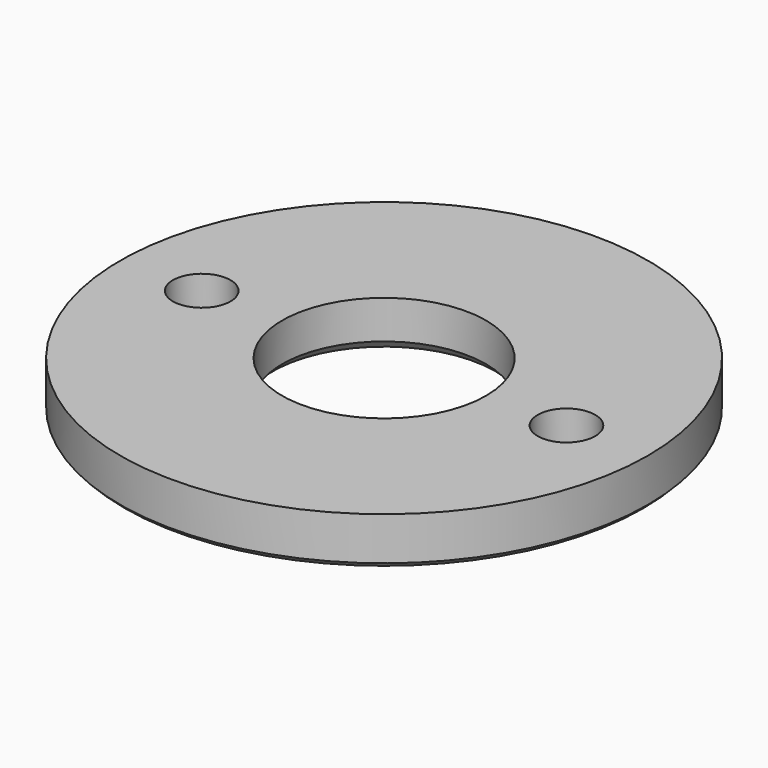
from build123d import *

# Parameters (mm, degrees)
SKETCH_R         = 27.5
SKETCH_R_2       = 10.625
PAD_DEPTH        = 5
CHAMFER_SIZE     = 0.5
CHAMFER001_SIZE  = 1
HOLE_D           = 6
HOLE_CSINK_D     = 8
HOLE_CSINK_ANGLE = 90


with BuildPart() as part:
    # Sketch → Pad (new body)
    with BuildSketch(Plane.XY):
        Circle(SKETCH_R)
        Circle(SKETCH_R_2, mode=Mode.SUBTRACT)
    extrude(amount=PAD_DEPTH)

    # Chamfer
    chamfer_edges = [part.edges().sort_by_distance(p)[0] for p in [
        (-27.5, 0, 0),
    ]]
    chamfer(chamfer_edges, length=CHAMFER_SIZE)

    # Chamfer001
    chamfer001_edges = [part.edges().sort_by_distance(p)[0] for p in [
        (-10.625, 0, 0),
    ]]
    chamfer(chamfer001_edges, length=CHAMFER001_SIZE)

    # Hole (through all)
    with Locations(Plane(origin=(0, 0, 0), x_dir=(1, 0, 0), z_dir=(0, 0, -1))):
        with Locations((-19, 0), (19, 0)):
            CounterSinkHole(HOLE_D / 2, HOLE_CSINK_D / 2, counter_sink_angle=HOLE_CSINK_ANGLE)


solid = part.part
